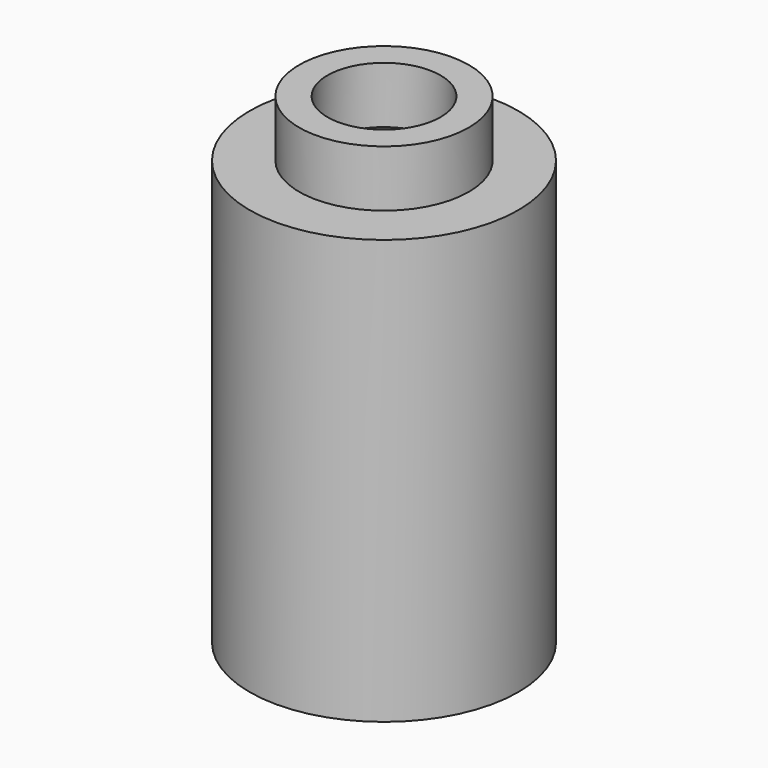
from build123d import *

# Parameters (mm, degrees)
F0_R     = 4.75
F0_R_2   = 3.75
F1_DEPTH = 15
F0_R_3   = 3
F0_R_4   = 2
F2_DEPTH = 1
F3_DEPTH = 2
F4_SIZE2 = 1
F4_SIZE  = 1


with BuildPart() as f1:
    # F0 (on Top) → F1 (new body)
    with BuildSketch(Plane.XY):
        Circle(F0_R)
        Circle(F0_R_2, mode=Mode.SUBTRACT)
    extrude(amount=-F1_DEPTH)

    # F0 (on Top) → F2 (join)
    with BuildSketch(Plane.XY):
        Circle(F0_R_2)
        Circle(F0_R_3, mode=Mode.SUBTRACT)
        Circle(F0_R_3)
        Circle(F0_R_4, mode=Mode.SUBTRACT)
    extrude(amount=-F2_DEPTH)

    # F0 (on Top) → F3 (join)
    with BuildSketch(Plane.XY):
        Circle(F0_R_3)
        Circle(F0_R_4, mode=Mode.SUBTRACT)
    extrude(amount=F3_DEPTH)

    # F4
    f4_edges = [f1.edges().sort_by_distance(p)[0] for p in [
        (-2, 0, -1),
    ]]
    chamfer(f4_edges, length=F4_SIZE, length2=F4_SIZE2)


solid = f1.part
